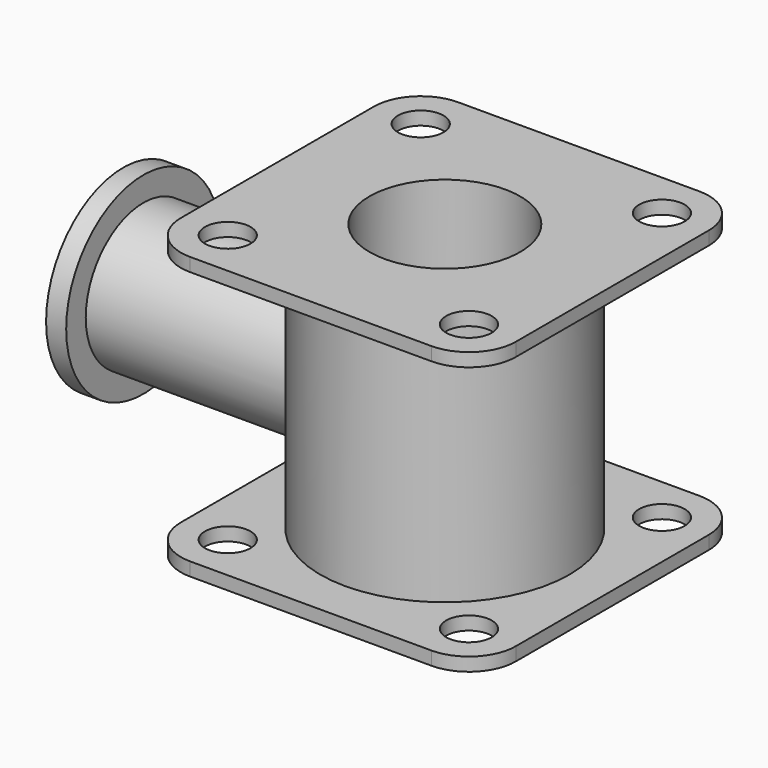
from build123d import *

# Parameters (mm, degrees)
F0_W      = 127
F0_H      = 127
F1_DEPTH  = 2.54
F2_R      = 47.2342022941
F3_DEPTH  = 101.6
F4_W      = 127
F4_H      = 127
F4_R      = 47.2342022941
F5_DEPTH  = 5.08
F6_R      = 27.2868056182
F7_DEPTH  = 50.8
F9_D      = 57.15
F10_R     = 17.78
F11_R     = 8.6311688536
F12_DEPTH = 106.681
F13_R     = 36.5588160366
F14_DEPTH = 7.62
F16_D     = 43.18
F16_DEPTH = 127
F16_TIP   = 12.9725807648


with BuildPart() as f1:
    # F0 (on Top) → F1 (new body, symmetric)
    with BuildSketch(Plane.XY):
        Rectangle(F0_W, F0_H)
    extrude(amount=F1_DEPTH, both=True)

    # F2 (on face) → F3 (join)
    with BuildSketch(Plane.XY.offset(2.54)):
        Circle(F2_R)
    extrude(amount=F3_DEPTH)

    # F4 (on face) → F5 (join)
    with BuildSketch(Plane.XY.offset(104.14)):
        Rectangle(F4_W, F4_H)
        Circle(F4_R, mode=Mode.SUBTRACT)
    extrude(amount=-F5_DEPTH)

    # F6 (on face) → F7 (join, symmetric)
    with BuildSketch(Plane(origin=(-63.5, 0, 0), x_dir=(0, -1, 0), z_dir=(-1, 0, 0))):
        with Locations((0, 46.8309223652)):
            Circle(F6_R)
    extrude(amount=F7_DEPTH, both=True)

    # F9 (through all)
    with Locations(Plane.XY.offset(104.14)):
        with Locations((0, 0)):
            Hole(F9_D / 2)

    # F10
    f10_edges = [f1.edges().sort_by_distance(p)[0] for p in [
        (-63.5, -63.5, 101.6),
        (63.5, -63.5, 101.6),
        (63.5, -63.5, 0),
        (-63.5, -63.5, 0),
        (-63.5, 63.5, 101.6),
        (-63.5, 63.5, 0),
        (63.5, 63.5, 101.6),
        (63.5, 63.5, 0),
    ]]
    fillet(f10_edges, radius=F10_R)

    # F11 (on face) → F12 (cut, through all)
    with BuildSketch(Plane.XY.offset(104.14)):
        with Locations((-45.72, 45.72)):
            Circle(F11_R)
        with Locations((45.72, 45.72)):
            Circle(F11_R)
        with Locations((45.72, -45.72)):
            Circle(F11_R)
        with Locations((-45.72, -45.72)):
            Circle(F11_R)
    extrude(amount=-F12_DEPTH, mode=Mode.SUBTRACT)

    # F13 (on face) → F14 (join)
    with BuildSketch(Plane(origin=(-114.3, 0, 0), x_dir=(0, -1, 0), z_dir=(-1, 0, 0))):
        with Locations((0, 46.8309223652)):
            Circle(F13_R)
    extrude(amount=F14_DEPTH)

    # F16
    with Locations(Plane(origin=(-121.92, 0, 0), x_dir=(0, -1, 0), z_dir=(-1, 0, 0))):
        with Locations((0, 46.8309223652)):
            Hole(F16_D / 2, depth=F16_DEPTH)
            with Locations((0, 0, -(F16_DEPTH + F16_TIP / 2))):  # 118° drill point
                Cone(0, F16_D / 2, F16_TIP, mode=Mode.SUBTRACT)


solid = f1.part
